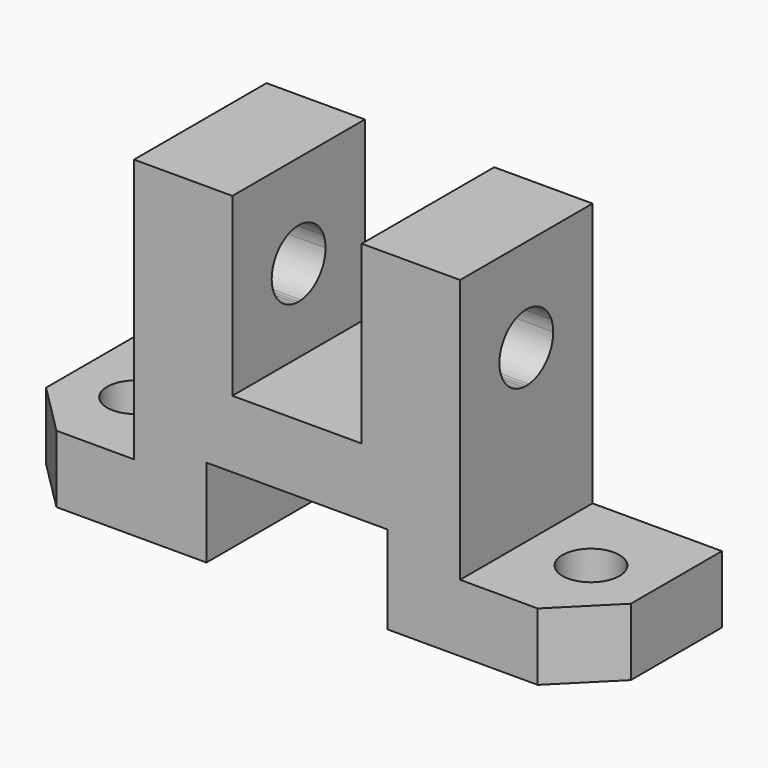
from build123d import *

# Parameters (mm, degrees)
F0_W     = 113
F0_H     = 32
F1_DEPTH = 64
F2_W     = 25
F2_H     = 51
F2_H_2   = 34
F2_W_2   = 35
F2_H_3   = 17
F3_DEPTH = 32.001
F5_R     = 5.5
F4_R     = 5.5
F7_DEPTH = 25
F8_DEPTH = 88.001


with BuildPart() as f1:
    # F0 (on Top) → F1 (new body)
    with BuildSketch(Plane.XY):
        with Locations((13.7222270072, 16)):
            Rectangle(F0_W, F0_H)
    extrude(amount=F1_DEPTH)

    # F2 (on face) → F3 (cut, through all)
    with BuildSketch(Plane.XZ):
        with Locations((-30.2777729928, 38.5)):
            Rectangle(F2_W, F2_H)
        with Locations((13.7222270072, 47)):
            Rectangle(F2_W, F2_H_2)
        with Locations((13.7222270072, 8.5)):
            Rectangle(F2_W_2, F2_H_3)
        with Locations((57.7222270072, 38.5)):
            Rectangle(F2_W, F2_H)
    extrude(amount=-F3_DEPTH, mode=Mode.SUBTRACT)

    # F5 (on face) + F4 (on face) → F7 (cut)
    with BuildSketch(Plane.XY.offset(13)):
        with Locations((57.7222270072, 16)):
            Circle(F5_R)
        Polygon((60.2222270072, 0), (70.2222270072, 0), (70.2222270072, 10), align=None)
    with BuildSketch(Plane.XY.offset(13)):
        with Locations((-30.2777729928, 16)):
            Circle(F4_R)
        Polygon((-42.7777729928, 10), (-42.7777729928, 0), (-32.7777729928, 0), align=None)
    extrude(amount=-F7_DEPTH, mode=Mode.SUBTRACT)

    # F6 (on face) → F8 (cut, through all)
    with BuildSketch(Plane.YZ.offset(45.2222270072)):
        with BuildLine():
            Line((9.8946494696, 48.2304024078), (15.3522470821, 39.5323562129))
            ThreePointArc((15.3522470821, 39.5323562129), (15.6757197327, 39.5080940928), (16, 39.5))
            ThreePointArc((16, 39.5), (16.3242802673, 39.5080940928), (16.6477529179, 39.5323562129))
            Line((16.6477529179, 39.5323562129), (22.1053505304, 48.2304024078))
            ThreePointArc((22.1053505304, 48.2304024078), (16, 52.5), (9.8946494696, 48.2304024078))
        make_face()
        with BuildLine():
            ThreePointArc((9.8946494696, 48.2304024078), (10.4940846857, 42.5453080381), (15.3522470821, 39.5323562129))
            Line((15.3522470821, 39.5323562129), (9.8946494696, 48.2304024078))
        make_face()
        with BuildLine():
            Line((22.1053505304, 48.2304024078), (16.6477529179, 39.5323562129))
            ThreePointArc((16.6477529179, 39.5323562129), (20.8197714659, 41.6388300862), (22.5, 46))
            ThreePointArc((22.5, 46), (22.4005772571, 47.1325240731), (22.1053505304, 48.2304024078))
        make_face()
    extrude(amount=-F8_DEPTH, mode=Mode.SUBTRACT)


solid = f1.part
